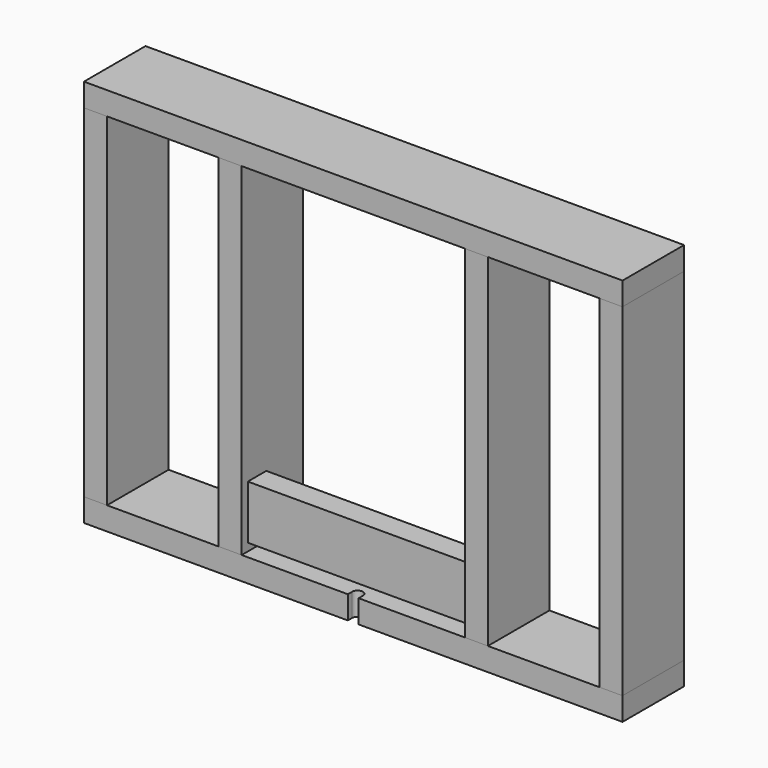
from build123d import *

# Parameters (mm, degrees)
F0_W      = 889
F0_H      = 127
F1_DEPTH  = 38.1
F2_W      = 38.1
F2_H      = 127
F3_DEPTH  = 565.15
F5_W      = 850.9
F5_H      = 127
F5_W_2    = 38.1
F6_DEPTH  = 38.1
F7_W      = 38.1
F7_H      = 127
F8_DEPTH  = 565.15
F9_W      = 38.1
F9_H      = 88.9
F10_DEPTH = 368.3
F12_DEPTH = 38.1


with BuildPart() as f1:
    # F0 (on Top) → F1 (new body)
    with BuildSketch(Plane.XY):
        Rectangle(F0_W, F0_H)
    extrude(amount=F1_DEPTH)

    # F11 (on face) → F12 (cut, through all)
    with BuildSketch(Plane.XY.offset(38.1)):
        with BuildLine():
            Line((8.89, -63.5), (8.89, -54.61))
            ThreePointArc((8.89, -54.61), (0, -45.72), (-8.89, -54.61))
            Line((-8.89, -54.61), (-8.89, -63.5))
            Line((-8.89, -63.5), (8.89, -63.5))
        make_face()
    extrude(amount=-F12_DEPTH, mode=Mode.SUBTRACT)


with BuildPart() as f3:
    # F2 (on face) → F3 (new body)
    with BuildSketch(Plane.XY.offset(38.1)):
        with Locations((-425.45, 0)):
            Rectangle(F2_W, F2_H)
    extrude(amount=F3_DEPTH)


with BuildPart() as f4_1:
    # F4: instance of F3
    add(f3.part.mirror(Plane.YZ))


with BuildPart() as f6:
    # F5 (on face) → F6 (new body)
    with BuildSketch(Plane.XY.offset(603.25)):
        with Locations((19.05, 0)):
            Rectangle(F5_W, F5_H)
        with Locations((-425.45, 0)):
            Rectangle(F5_W_2, F5_H)
    extrude(amount=F6_DEPTH)


with BuildPart() as f8:
    # F7 (on face) → F8 (new body, through all)
    with BuildSketch(Plane.XY.offset(38.1)):
        with Locations((-203.2, 0)):
            Rectangle(F7_W, F7_H)
        with Locations((203.2, 0)):
            Rectangle(F7_W, F7_H)
    extrude(amount=F8_DEPTH)


with BuildPart() as f10:
    # F9 (on face) → F10 (new body, through all)
    with BuildSketch(Plane.YZ.offset(-184.15)):
        with Locations((-31.75, 95.25)):
            Rectangle(F9_W, F9_H)
    extrude(amount=F10_DEPTH)


solid = Compound([f1.part, f3.part, f4_1.part, f6.part, f8.part, f10.part])
